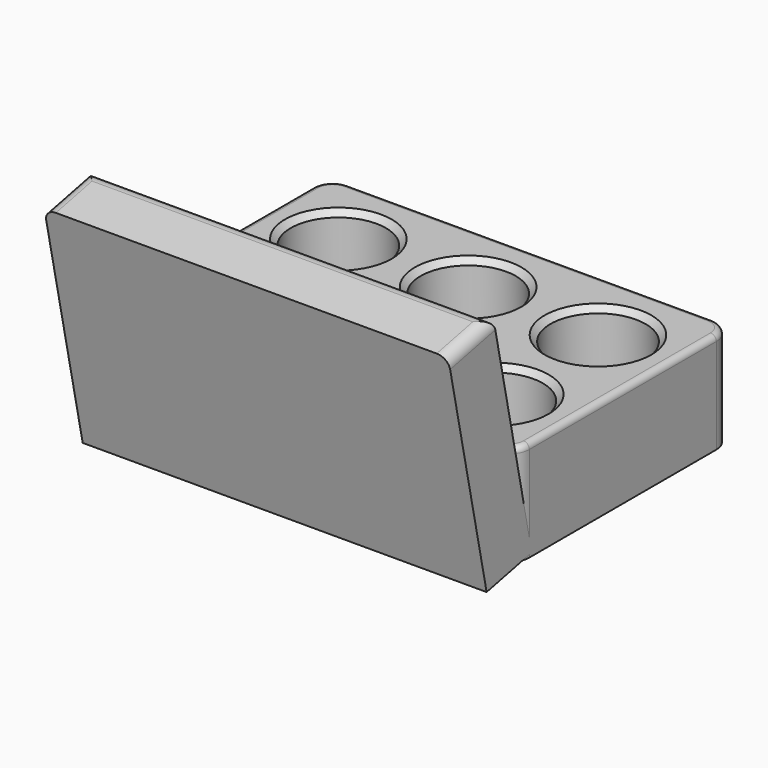
from build123d import *

# Parameters (mm, degrees)
BOX_W          = 140
BOX_H          = 20
BOX_DEPTH      = 80
BOX_ROLL_ANGLE = 12
SKETCH_W       = 140
SKETCH_H       = 95
PAD_DEPTH      = 35
SKETCH001_R    = 16.5
POCKET_DEPTH   = 34
FILLET_R       = 7
FILLET001_R    = 2
CHAMFER_SIZE   = 2
FILLET002_R    = 4


with BuildPart() as cube:
    # Box → Box (new body)
    with BuildSketch(Plane.XY):
        with Locations((70, 10)):
            Rectangle(BOX_W, BOX_H)
    extrude(amount=BOX_DEPTH)


with BuildPart() as cube_1:
    # Box roll: moved
    add(cube.part.rotate(Axis((0, 0, 0), (1, 0, 0)), BOX_ROLL_ANGLE))


with BuildPart() as cube_2:
    # Box placement: moved
    add(cube_1.part.moved(Location((-70, -59, -3))))


with BuildPart() as fillet002:
    # Sketch → Pad (new body)
    with BuildSketch(Plane.XY):
        Rectangle(SKETCH_W, SKETCH_H)
    extrude(amount=PAD_DEPTH)

    # Sketch001 → Pocket (cut)
    with BuildSketch(Plane.XY.offset(35)):
        with Locations((-45, 20.5)):
            Circle(SKETCH001_R)
        with Locations((0, 20.5)):
            Circle(SKETCH001_R)
        with Locations((45, 20.5)):
            Circle(SKETCH001_R)
        with Locations((45, -24)):
            Circle(SKETCH001_R)
        with Locations((0, -24)):
            Circle(SKETCH001_R)
        with Locations((-45, -24)):
            Circle(SKETCH001_R)
    extrude(amount=-POCKET_DEPTH, mode=Mode.SUBTRACT)

    # Fillet
    fillet_edges = [fillet002.edges().sort_by_distance(p)[0] for p in [
        (-70, -47.5, 17.5),
        (70, -47.5, 17.5),
        (70, 47.5, 17.5),
        (-70, 47.5, 17.5),
    ]]
    fillet(fillet_edges, radius=FILLET_R)

    # Fillet001
    fillet001_edges = [fillet002.edges().sort_by_distance(p)[0] for p in [
        (0, -47.5, 35),
        (-70, 0, 35),
        (0, 47.5, 35),
        (70, 0, 35),
    ]]
    fillet(fillet001_edges, radius=FILLET001_R)

    # Chamfer
    chamfer_edges = [fillet002.edges().sort_by_distance(p)[0] for p in [
        (-61.5, -24, 35),
        (-61.5, 20.5, 35),
        (-16.5, 20.5, 35),
        (-16.5, -24, 35),
        (28.5, 20.5, 35),
        (28.5, -24, 35),
    ]]
    chamfer(chamfer_edges, length=CHAMFER_SIZE)

    # Fusion: union Cube
    add(cube_2.part)

    # Fillet002
    fillet002_edges = [fillet002.edges().sort_by_distance(p)[0] for p in [
        (70, -65.851459, 77.330925),
        (-70, -65.851459, 77.330925),
        (0, -56.069983, 79.410042),
    ]]
    fillet(fillet002_edges, radius=FILLET002_R)


solid = fillet002.part
